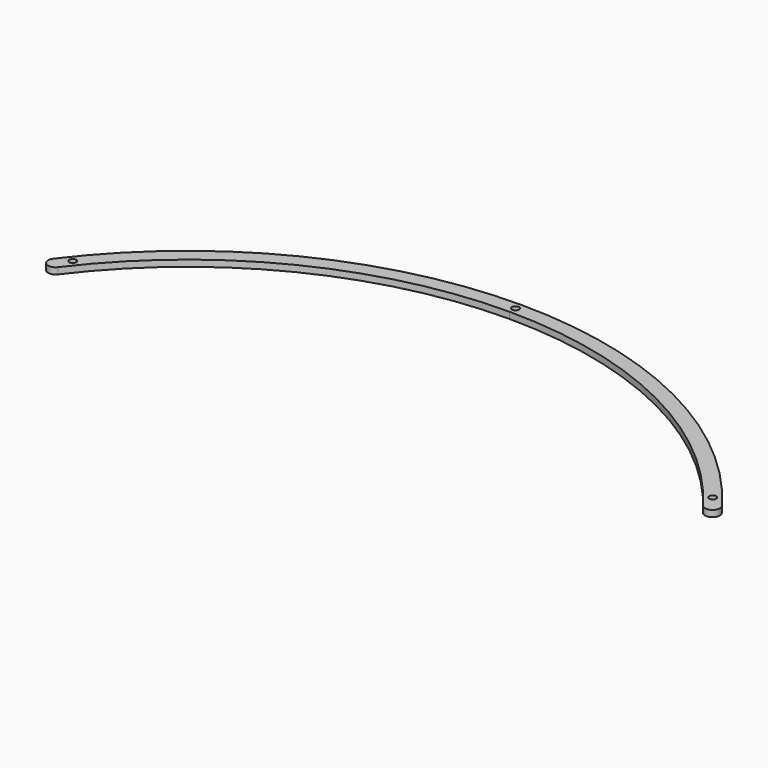
from build123d import *

# Parameters (mm, degrees)
PAD015_DEPTH                        = 3
SKETCH054_R                         = 1.65
POCKET018_DEPTH                     = 358.938883
POCKET018_DEPTH_BACK                = 361.938883
BODY001003005003004_PLACEMENT_ANGLE = 60
CLONE024_PLACEMENT_ANGLE            = 60


with BuildPart() as part:
    # Sketch053 → Pad015 (new body)
    with BuildSketch(Plane.XY):
        with BuildLine():
            ThreePointArc((152.005097, 113.785532), (84.992984, 169.790723), (0, 189.875477))
            Line((0, 189.875477), (0, 196.875477))
            ThreePointArc((157.608957, 117.98038), (88.126358, 176.050273), (0, 196.875477))
            ThreePointArc((152.005097, 113.785532), (156.904451, 113.081026), (157.608957, 117.98038))
        make_face()
    pad015 = extrude(amount=PAD015_DEPTH)

    # Sketch054 → Pocket018 (cut, two sides)
    with BuildSketch(Plane.XY) as pocket018_sk:
        with Locations((150.82443, 121.020933)):
            Circle(SKETCH054_R)
        with BuildLine():
            ThreePointArc((0, 191.725477), (1.65, 193.375477), (0, 195.025477))
            Line((0, 191.725477), (0, 195.025477))
        make_face()
    pocket018 = extrude(amount=-POCKET018_DEPTH, mode=Mode.SUBTRACT) + extrude(pocket018_sk.sketch, amount=POCKET018_DEPTH_BACK, mode=Mode.SUBTRACT)

    # Mirrored020: Pad015, Pocket018 across Sketch053 V_Axis
    add(pad015.mirror(Plane(origin=(0, 0, 0), x_dir=(0, 0, 1), z_dir=(1, 0, 0))))
    add(pocket018.mirror(Plane(origin=(0, 0, 0), x_dir=(0, 0, 1), z_dir=(1, 0, 0))), mode=Mode.SUBTRACT)


with BuildPart() as part_1:
    # Body001003005003004 placement: moved
    add(part.part.rotate(Axis((0, 0, 0), (0, 0, 1)), BODY001003005003004_PLACEMENT_ANGLE))


with BuildPart() as part_2:
    # Clone024 placement: moved
    add(part_1.part.moved(Location((0, 57, 0))).rotate(Axis((0, 57, 0), (0, 0, -1)), CLONE024_PLACEMENT_ANGLE))


solid = part_2.part
